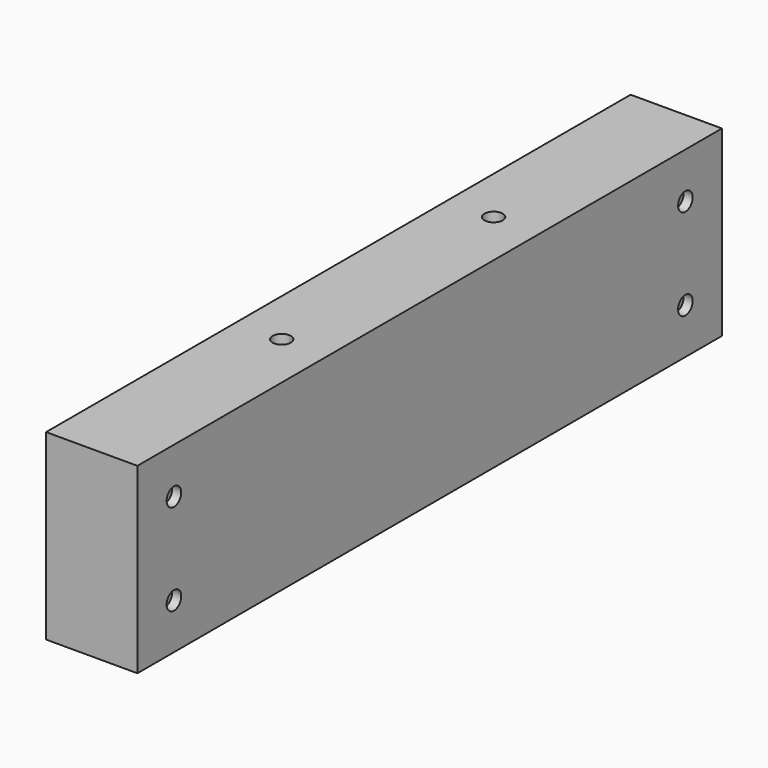
from build123d import *

# Parameters (mm, degrees)
F0_W     = 100
F0_H     = 200
F1_DEPTH = 800
F2_R     = 10
F3_DEPTH = 10
F4_R     = 10
F5_DEPTH = 100


with BuildPart() as f1:
    # F0 (on Front) → F1 (new body)
    with BuildSketch(Plane.XZ):
        with Locations((-50, 100)):
            Rectangle(F0_W, F0_H)
    extrude(amount=F1_DEPTH)

    # F2 (on face) → F3 (cut)
    with BuildSketch(Plane.YZ):
        with Locations((-750, 150)):
            Circle(F2_R)
        with Locations((-750, 50)):
            Circle(F2_R)
        with Locations((-50, 150)):
            Circle(F2_R)
        with Locations((-50, 50)):
            Circle(F2_R)
    extrude(amount=-F3_DEPTH, mode=Mode.SUBTRACT)

    # F4 (on face) → F5 (cut)
    with BuildSketch(Plane.XY.offset(200)):
        with Locations((-50, -250)):
            Circle(F4_R)
        with Locations((-50, -540)):
            Circle(F4_R)
    extrude(amount=-F5_DEPTH, mode=Mode.SUBTRACT)


solid = f1.part
